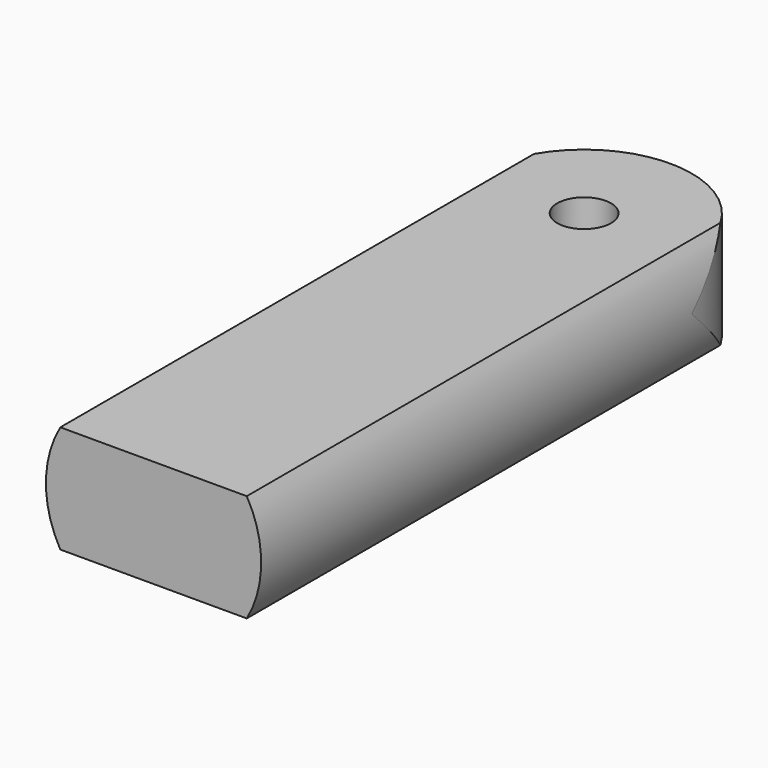
from build123d import *

# Parameters (mm, degrees)
SKETCH002_R  = 2.5
PAD001_DEPTH = 5
SKETCH003_R  = 10
PAD002_DEPTH = 60


with BuildPart() as lugbody:
    # Sketch002 → Pad001 (new body, symmetric)
    with BuildSketch(Plane.XY):
        with BuildLine():
            Line((-10, 0), (-10, 50))
            ThreePointArc((10, 50), (0, 60), (-10, 50))
            Line((10, 50), (10, 0))
            Line((10, 0), (-10, 0))
        make_face()
        with Locations((0, 50)):
            Circle(SKETCH002_R, mode=Mode.SUBTRACT)
    extrude(amount=PAD001_DEPTH, both=True)


with BuildPart() as lugcylinder:
    # Sketch003 → Pad002 (new body)
    with BuildSketch(Plane.XZ):
        Circle(SKETCH003_R)
    extrude(amount=-PAD002_DEPTH)

    # Boolean: intersect LugBody
    add(lugbody.part, mode=Mode.INTERSECT)


solid = lugcylinder.part
